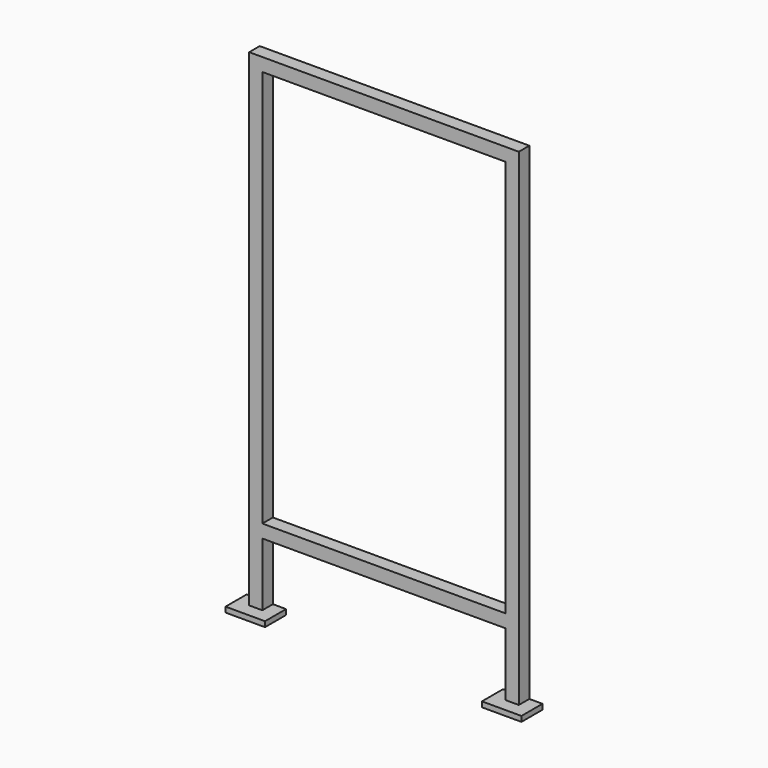
from build123d import *

# Parameters (mm, degrees)
F0_W     = 924
F0_H     = 1510
F0_W_2   = 50
F0_H_2   = 240
F1_DEPTH = 50
F2_DEPTH = 100
F3_DEPTH = 100


with BuildPart() as f1:
    # F0 (on Front) → F1 (new body)
    with BuildSketch(Plane.XZ):
        Polygon((0, 0), (-1024, 0), (-1024, -1610), (-974, -1610), (-50, -1610), (0, -1610), align=None)
        with Locations((-512, -805)):
            Rectangle(F0_W, F0_H, mode=Mode.SUBTRACT)
        with Locations((-999, -1730)):
            Rectangle(F0_W_2, F0_H_2)
        with Locations((-25, -1730)):
            Rectangle(F0_W_2, F0_H_2)
    extrude(amount=F1_DEPTH)

    # F0 (on Front) → F2 (join)
    with BuildSketch(Plane.XZ):
        Polygon((-974, -1850), (-1024, -1850), (-1074, -1850), (-1074, -1870), (-924, -1870), (-924, -1850), align=None)
    extrude(amount=F2_DEPTH)

    # F0 (on Front) → F3 (join)
    with BuildSketch(Plane.XZ):
        Polygon((50, -1850), (0, -1850), (-50, -1850), (-100, -1850), (-100, -1870), (50, -1870), align=None)
    extrude(amount=F3_DEPTH)


solid = f1.part
